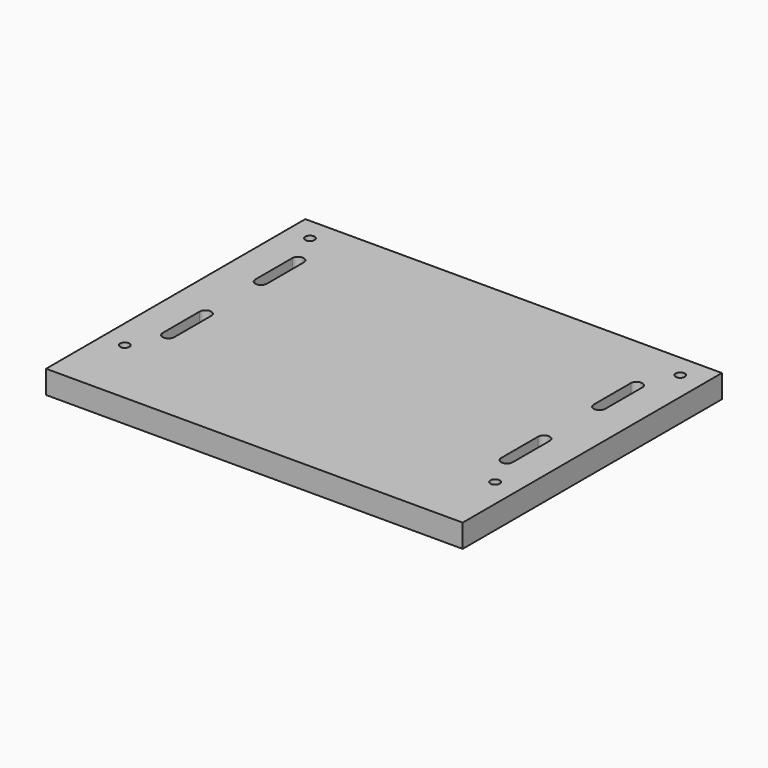
from build123d import *

# Parameters (mm, degrees)
F0_W     = 228.6
F0_H     = 177.8
F1_DEPTH = 12.7
F3_D     = 5.1054
F5_DEPTH = 12.701


with BuildPart() as f1:
    # F0 (on Top) → F1 (new body)
    with BuildSketch(Plane.XY):
        with Locations((-114.3, 88.9)):
            Rectangle(F0_W, F0_H)
    extrude(amount=F1_DEPTH)

    # F3 (through all)
    with Locations(Plane.XY.offset(12.7)):
        with Locations((-12.7, 38.1), (-12.7, 165.1), (-215.9, 38.1), (-215.9, 165.1)):
            Hole(F3_D / 2)

    # F4 (on face) → F5 (cut, through all)
    with BuildSketch(Plane.XY.offset(12.7)):
        with BuildLine():
            ThreePointArc((-24.60625, 120.65), (-21.43125, 117.475), (-18.25625, 120.65))
            Line((-18.25625, 120.65), (-18.25625, 146.05))
            ThreePointArc((-18.25625, 146.05), (-21.43125, 149.225), (-24.60625, 146.05))
            Line((-24.60625, 146.05), (-24.60625, 120.65))
        make_face()
        with BuildLine():
            ThreePointArc((-18.25625, 82.55), (-21.43125, 85.725), (-24.60625, 82.55))
            Line((-24.60625, 82.55), (-24.60625, 57.15))
            ThreePointArc((-24.60625, 57.15), (-21.43125, 53.975), (-18.25625, 57.15))
            Line((-18.25625, 57.15), (-18.25625, 82.55))
        make_face()
        with BuildLine():
            Line((-203.99375, 120.65), (-203.99375, 146.05))
            ThreePointArc((-203.99375, 146.05), (-207.16875, 149.225), (-210.34375, 146.05))
            Line((-210.34375, 146.05), (-210.34375, 120.65))
            ThreePointArc((-210.34375, 120.65), (-207.16875, 117.475), (-203.99375, 120.65))
        make_face()
        with BuildLine():
            ThreePointArc((-210.34375, 57.15), (-207.16875, 53.975), (-203.99375, 57.15))
            Line((-203.99375, 57.15), (-203.99375, 82.55))
            ThreePointArc((-203.99375, 82.55), (-207.16875, 85.725), (-210.34375, 82.55))
            Line((-210.34375, 82.55), (-210.34375, 57.15))
        make_face()
    extrude(amount=-F5_DEPTH, mode=Mode.SUBTRACT)


solid = f1.part
